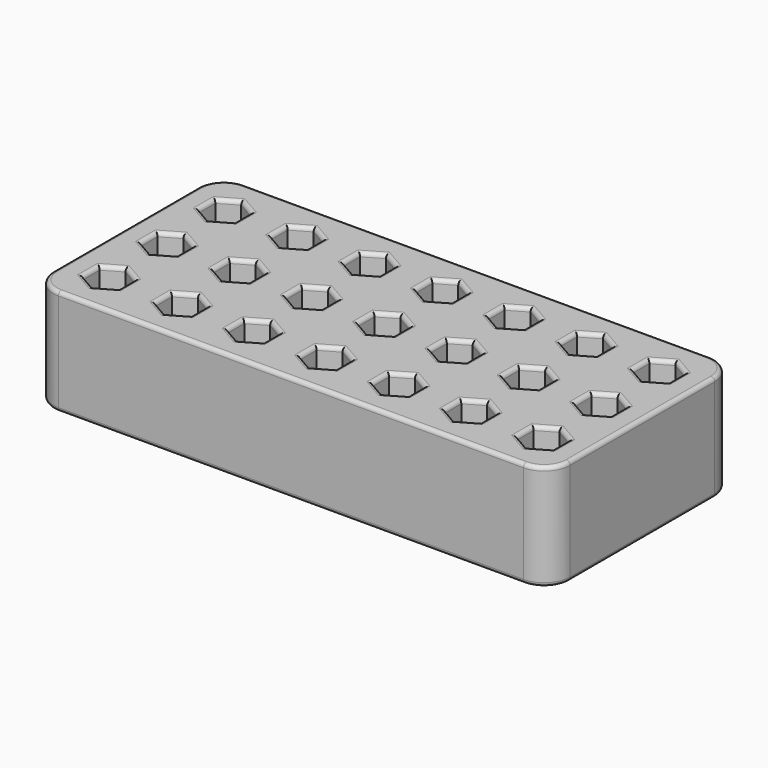
from build123d import *

# Parameters (mm, degrees)
F2_DEPTH = 20.5
F3_DEPTH = 12
F4_DEPTH = 17
F5_R     = 0.5
F6_R     = 0.75


with BuildPart() as f2:
    # F1 (on Top) → F2 (new body)
    with BuildSketch(Plane.XY):
        with BuildLine():
            Line((45, 22.5), (-45, 22.5))
            ThreePointArc((-45, 22.5), (-48.5355339059, 21.0355339059), (-50, 17.5))
            Line((-50, 17.5), (-50, -17.5))
            ThreePointArc((-50, -17.5), (-48.5355339059, -21.0355339059), (-45, -22.5))
            Line((-45, -22.5), (45, -22.5))
            ThreePointArc((45, -22.5), (48.5355339059, -21.0355339059), (50, -17.5))
            Line((50, -17.5), (50, 17.5))
            ThreePointArc((50, 17.5), (48.5355339059, 21.0355339059), (45, 22.5))
        make_face()
    extrude(amount=-F2_DEPTH)

    # F0 (on Top) → F3 (cut)
    with BuildSketch(Plane.XY):
        Polygon((-42, -10.0451506561), (-45.425, -12.022575328), (-45.425, -15.977424672), (-42, -17.9548493439), (-38.575, -15.977424672), (-38.575, -12.022575328), align=None)
        Polygon((-28, -10.0451506561), (-31.425, -12.022575328), (-31.425, -15.977424672), (-28, -17.9548493439), (-24.575, -15.977424672), (-24.575, -12.022575328), align=None)
        Polygon((-14, -17.9548493439), (-10.575, -15.977424672), (-10.575, -12.022575328), (-14, -10.0451506561), (-17.425, -12.022575328), (-17.425, -15.977424672), align=None)
        Polygon((-3.425, -12.022575328), (-3.425, -15.977424672), (0, -17.9548493439), (3.425, -15.977424672), (3.425, -12.022575328), (0, -10.0451506561), align=None)
        Polygon((10.575, -12.022575328), (10.575, -15.977424672), (14, -17.9548493439), (17.425, -15.977424672), (17.425, -12.022575328), (14, -10.0451506561), align=None)
        Polygon((31.425, -12.022575328), (28, -10.0451506561), (24.575, -12.022575328), (24.575, -15.977424672), (28, -17.9548493439), (31.425, -15.977424672), align=None)
        Polygon((45.425, -12.022575328), (42, -10.0451506561), (38.575, -12.022575328), (38.575, -15.977424672), (42, -17.9548493439), (45.425, -15.977424672), align=None)
    extrude(amount=-F3_DEPTH, mode=Mode.SUBTRACT)

    # F0 (on Top) → F4 (cut)
    with BuildSketch(Plane.XY):
        Polygon((-38.575, 12.022575328), (-38.575, 15.977424672), (-42, 17.9548493439), (-45.425, 15.977424672), (-45.425, 12.022575328), (-42, 10.0451506561), align=None)
        Polygon((-28, 10.0451506561), (-24.575, 12.022575328), (-24.575, 15.977424672), (-28, 17.9548493439), (-31.425, 15.977424672), (-31.425, 12.022575328), align=None)
        Polygon((-10.575, 12.022575328), (-10.575, 15.977424672), (-14, 17.9548493439), (-17.425, 15.977424672), (-17.425, 12.022575328), (-14, 10.0451506561), align=None)
        Polygon((0, 17.9548493439), (-3.425, 15.977424672), (-3.425, 12.022575328), (0, 10.0451506561), (3.425, 12.022575328), (3.425, 15.977424672), align=None)
        Polygon((14, 17.9548493439), (10.575, 15.977424672), (10.575, 12.022575328), (14, 10.0451506561), (17.425, 12.022575328), (17.425, 15.977424672), align=None)
        Polygon((28, 17.9548493439), (24.575, 15.977424672), (24.575, 12.022575328), (28, 10.0451506561), (31.425, 12.022575328), (31.425, 15.977424672), align=None)
        Polygon((42, 17.9548493439), (38.575, 15.977424672), (38.575, 12.022575328), (42, 10.0451506561), (45.425, 12.022575328), (45.425, 15.977424672), align=None)
        Polygon((42, 3.9548493439), (38.575, 1.977424672), (38.575, -1.977424672), (42, -3.9548493439), (45.425, -1.977424672), (45.425, 1.977424672), align=None)
        Polygon((28, 3.9548493439), (24.575, 1.977424672), (24.575, -1.977424672), (28, -3.9548493439), (31.425, -1.977424672), (31.425, 1.977424672), align=None)
        Polygon((14, 3.9548493439), (10.575, 1.977424672), (10.575, -1.977424672), (14, -3.9548493439), (17.425, -1.977424672), (17.425, 1.977424672), align=None)
        Polygon((3.425, -1.977424672), (3.425, 1.977424672), (0, 3.9548493439), (-3.425, 1.977424672), (-3.425, -1.977424672), (0, -3.9548493439), align=None)
        Polygon((-10.575, -1.977424672), (-10.575, 1.977424672), (-14, 3.9548493439), (-17.425, 1.977424672), (-17.425, -1.977424672), (-14, -3.9548493439), align=None)
        Polygon((-24.575, 1.977424672), (-28, 3.9548493439), (-31.425, 1.977424672), (-31.425, -1.977424672), (-28, -3.9548493439), (-24.575, -1.977424672), align=None)
        Polygon((-38.575, -1.977424672), (-38.575, 1.977424672), (-42, 3.9548493439), (-45.425, 1.977424672), (-45.425, -1.977424672), (-42, -3.9548493439), align=None)
    extrude(amount=-F4_DEPTH, mode=Mode.SUBTRACT)

    # F5
    f5_edges = [f2.edges().sort_by_distance(p)[0] for p in [
        (-38.575, 14, -17),
        (-40.2875, 16.966137, -17),
        (-43.7125, 16.966137, -17),
        (-45.425, 14, -17),
        (-43.7125, 11.033863, -17),
        (-40.2875, 11.033863, -17),
        (-26.2875, 11.033863, -17),
        (-24.575, 14, -17),
        (-26.2875, 16.966137, -17),
        (-29.7125, 16.966137, -17),
        (-31.425, 14, -17),
        (-29.7125, 11.033863, -17),
        (-10.575, 14, -17),
        (-12.2875, 16.966137, -17),
        (-15.7125, 16.966137, -17),
        (-17.425, 14, -17),
        (-15.7125, 11.033863, -17),
        (-12.2875, 11.033863, -17),
        (-1.7125, 16.966137, -17),
        (-3.425, 14, -17),
        (-1.7125, 11.033863, -17),
        (1.7125, 11.033863, -17),
        (3.425, 14, -17),
        (1.7125, 16.966137, -17),
        (12.2875, 16.966137, -17),
        (10.575, 14, -17),
        (12.2875, 11.033863, -17),
        (15.7125, 11.033863, -17),
        (17.425, 14, -17),
        (15.7125, 16.966137, -17),
        (26.2875, 16.966137, -17),
        (24.575, 14, -17),
        (26.2875, 11.033863, -17),
        (29.7125, 11.033863, -17),
        (31.425, 14, -17),
        (29.7125, 16.966137, -17),
        (40.2875, 16.966137, -17),
        (38.575, 14, -17),
        (40.2875, 11.033863, -17),
        (43.7125, 11.033863, -17),
        (45.425, 14, -17),
        (43.7125, 16.966137, -17),
        (40.2875, 2.966137, -17),
        (38.575, 0, -17),
        (40.2875, -2.966137, -17),
        (43.7125, -2.966137, -17),
        (45.425, 0, -17),
        (43.7125, 2.966137, -17),
        (26.2875, 2.966137, -17),
        (24.575, 0, -17),
        (26.2875, -2.966137, -17),
        (29.7125, -2.966137, -17),
        (31.425, 0, -17),
        (29.7125, 2.966137, -17),
        (12.2875, 2.966137, -17),
        (10.575, 0, -17),
        (12.2875, -2.966137, -17),
        (15.7125, -2.966137, -17),
        (17.425, 0, -17),
        (15.7125, 2.966137, -17),
        (1.7125, -2.966137, -17),
        (3.425, 0, -17),
        (1.7125, 2.966137, -17),
        (-1.7125, 2.966137, -17),
        (-3.425, 0, -17),
        (-1.7125, -2.966137, -17),
        (-12.2875, -2.966137, -17),
        (-10.575, 0, -17),
        (-12.2875, 2.966137, -17),
        (-15.7125, 2.966137, -17),
        (-17.425, 0, -17),
        (-15.7125, -2.966137, -17),
        (-24.575, 0, -17),
        (-26.2875, 2.966137, -17),
        (-29.7125, 2.966137, -17),
        (-31.425, 0, -17),
        (-29.7125, -2.966137, -17),
        (-26.2875, -2.966137, -17),
        (-38.575, 0, -17),
        (-40.2875, 2.966137, -17),
        (-43.7125, 2.966137, -17),
        (-45.425, 0, -17),
        (-43.7125, -2.966137, -17),
        (-40.2875, -2.966137, -17),
        (-40.2875, -11.033863, -12),
        (-43.7125, -11.033863, -12),
        (-45.425, -14, -12),
        (-43.7125, -16.966137, -12),
        (-40.2875, -16.966137, -12),
        (-38.575, -14, -12),
        (-26.2875, -11.033863, -12),
        (-29.7125, -11.033863, -12),
        (-31.425, -14, -12),
        (-29.7125, -16.966137, -12),
        (-26.2875, -16.966137, -12),
        (-24.575, -14, -12),
        (-12.2875, -16.966137, -12),
        (-10.575, -14, -12),
        (-12.2875, -11.033863, -12),
        (-15.7125, -11.033863, -12),
        (-17.425, -14, -12),
        (-15.7125, -16.966137, -12),
        (-3.425, -14, -12),
        (-1.7125, -16.966137, -12),
        (1.7125, -16.966137, -12),
        (3.425, -14, -12),
        (1.7125, -11.033863, -12),
        (-1.7125, -11.033863, -12),
        (10.575, -14, -12),
        (12.2875, -16.966137, -12),
        (15.7125, -16.966137, -12),
        (17.425, -14, -12),
        (15.7125, -11.033863, -12),
        (12.2875, -11.033863, -12),
        (29.7125, -16.966137, -12),
        (31.425, -14, -12),
        (29.7125, -11.033863, -12),
        (26.2875, -11.033863, -12),
        (24.575, -14, -12),
        (26.2875, -16.966137, -12),
        (43.7125, -16.966137, -12),
        (45.425, -14, -12),
        (43.7125, -11.033863, -12),
        (40.2875, -11.033863, -12),
        (38.575, -14, -12),
        (40.2875, -16.966137, -12),
    ]]
    fillet(f5_edges, radius=F5_R)

    # F6
    f6_edges = [f2.edges().sort_by_distance(p)[0] for p in [
        (-43.7125, 16.966137, 0),
        (-40.2875, 16.966137, 0),
        (-38.575, 14, 0),
        (-40.2875, 11.033863, 0),
        (-43.7125, 11.033863, 0),
        (-45.425, 14, 0),
        (-43.7125, 2.966137, 0),
        (-38.575, 0, 0),
        (-43.7125, -2.966137, 0),
        (-45.425, 0, 0),
        (-40.2875, 2.966137, 0),
        (-40.2875, -2.966137, 0),
        (-43.7125, -16.966137, 0),
        (-40.2875, -11.033863, 0),
        (-40.2875, -16.966137, 0),
        (-45.425, -14, 0),
        (-38.575, -14, 0),
        (-43.7125, -11.033863, 0),
        (-26.2875, -11.033863, 0),
        (-31.425, -14, 0),
        (-29.7125, -16.966137, 0),
        (-29.7125, -11.033863, 0),
        (-26.2875, -16.966137, 0),
        (-24.575, -14, 0),
        (-24.575, 0, 0),
        (-31.425, 0, 0),
        (-31.425, 14, 0),
        (-26.2875, 16.966137, 0),
        (-26.2875, 2.966137, 0),
        (-26.2875, 11.033863, 0),
        (-29.7125, 16.966137, 0),
        (-29.7125, 11.033863, 0),
        (-29.7125, 2.966137, 0),
        (-26.2875, -2.966137, 0),
        (-24.575, 14, 0),
        (-29.7125, -2.966137, 0),
        (-12.2875, -11.033863, 0),
        (-12.2875, -16.966137, 0),
        (-17.425, -14, 0),
        (-12.2875, 2.966137, 0),
        (-12.2875, 11.033863, 0),
        (-12.2875, -2.966137, 0),
        (-15.7125, 16.966137, 0),
        (-12.2875, 16.966137, 0),
        (-17.425, 0, 0),
        (-17.425, 14, 0),
        (-10.575, 14, 0),
        (-10.575, 0, 0),
        (-15.7125, -16.966137, 0),
        (-15.7125, -11.033863, 0),
        (-10.575, -14, 0),
        (-15.7125, -2.966137, 0),
        (-15.7125, 2.966137, 0),
        (-15.7125, 11.033863, 0),
        (-1.7125, 16.966137, 0),
        (1.7125, 16.966137, 0),
        (-3.425, 14, 0),
        (3.425, -14, 0),
        (1.7125, -11.033863, 0),
        (-1.7125, -11.033863, 0),
        (-3.425, -14, 0),
        (12.2875, -11.033863, 0),
        (12.2875, 16.966137, 0),
        (15.7125, 11.033863, 0),
        (-3.425, 0, 0),
        (12.2875, -16.966137, 0),
        (1.7125, -2.966137, 0),
        (3.425, 14, 0),
        (15.7125, 2.966137, 0),
        (17.425, 0, 0),
        (12.2875, 11.033863, 0),
        (10.575, 14, 0),
        (12.2875, 2.966137, 0),
        (1.7125, 11.033863, 0),
        (-1.7125, -16.966137, 0),
        (17.425, 14, 0),
        (-1.7125, 11.033863, 0),
        (15.7125, 16.966137, 0),
        (-1.7125, 2.966137, 0),
        (10.575, -14, 0),
        (3.425, 0, 0),
        (-1.7125, -2.966137, 0),
        (15.7125, -16.966137, 0),
        (15.7125, -11.033863, 0),
        (1.7125, -16.966137, 0),
        (12.2875, -2.966137, 0),
        (17.425, -14, 0),
        (10.575, 0, 0),
        (15.7125, -2.966137, 0),
        (1.7125, 2.966137, 0),
        (-45, -22.5, -10.25),
        (45, -22.5, -10.25),
        (0, -22.5, 0),
        (0, -22.5, -20.5),
        (43.7125, -16.966137, 0),
        (38.575, 14, 0),
        (31.425, 14, 0),
        (40.2875, 2.966137, 0),
        (38.575, -14, 0),
        (31.425, 0, 0),
        (24.575, 0, 0),
        (29.7125, -11.033863, 0),
        (29.7125, 16.966137, 0),
        (26.2875, -16.966137, 0),
        (26.2875, 2.966137, 0),
        (40.2875, 16.966137, 0),
        (29.7125, -16.966137, 0),
        (26.2875, 16.966137, 0),
        (43.7125, -2.966137, 0),
        (29.7125, -2.966137, 0),
        (24.575, 14, 0),
        (40.2875, -11.033863, 0),
        (38.575, 0, 0),
        (40.2875, -16.966137, 0),
        (40.2875, -2.966137, 0),
        (26.2875, -2.966137, 0),
        (45.425, 0, 0),
        (26.2875, 11.033863, 0),
        (45.425, 14, 0),
        (45.425, -14, 0),
        (31.425, -14, 0),
        (26.2875, -11.033863, 0),
        (43.7125, 11.033863, 0),
        (24.575, -14, 0),
        (43.7125, 2.966137, 0),
        (43.7125, 16.966137, 0),
        (29.7125, 11.033863, 0),
        (29.7125, 2.966137, 0),
        (40.2875, 11.033863, 0),
        (43.7125, -11.033863, 0),
    ]]
    fillet(f6_edges, radius=F6_R)


solid = f2.part
